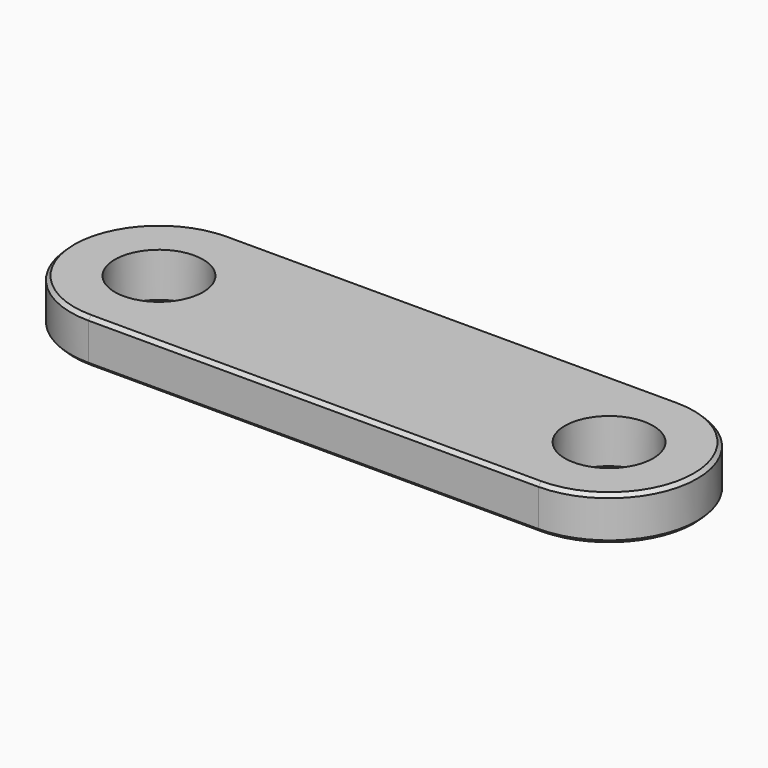
from build123d import *

# Parameters (mm, degrees)
F0_R     = 25
F1_DEPTH = 25
F2_SIZE2 = 2
F2_SIZE  = 2


with BuildPart() as f1:
    # F0 (on Top) → F1 (new body)
    with BuildSketch(Plane.XY):
        with BuildLine():
            Line((-255, -50), (0, -50))
            ThreePointArc((0, -50), (50, 0), (0, 50))
            Line((0, 50), (-255, 50))
            ThreePointArc((-255, 50), (-305, 0), (-255, -50))
        make_face()
        with Locations((-255, 0)):
            Circle(F0_R, mode=Mode.SUBTRACT)
        Circle(F0_R, mode=Mode.SUBTRACT)
    extrude(amount=F1_DEPTH)

    # F2
    f2_edges = [f1.edges().sort_by_distance(p)[0] for p in [
        (50, 0, 25),
        (50, 0, 0),
    ]]
    chamfer(f2_edges, length=F2_SIZE, length2=F2_SIZE2)


solid = f1.part
